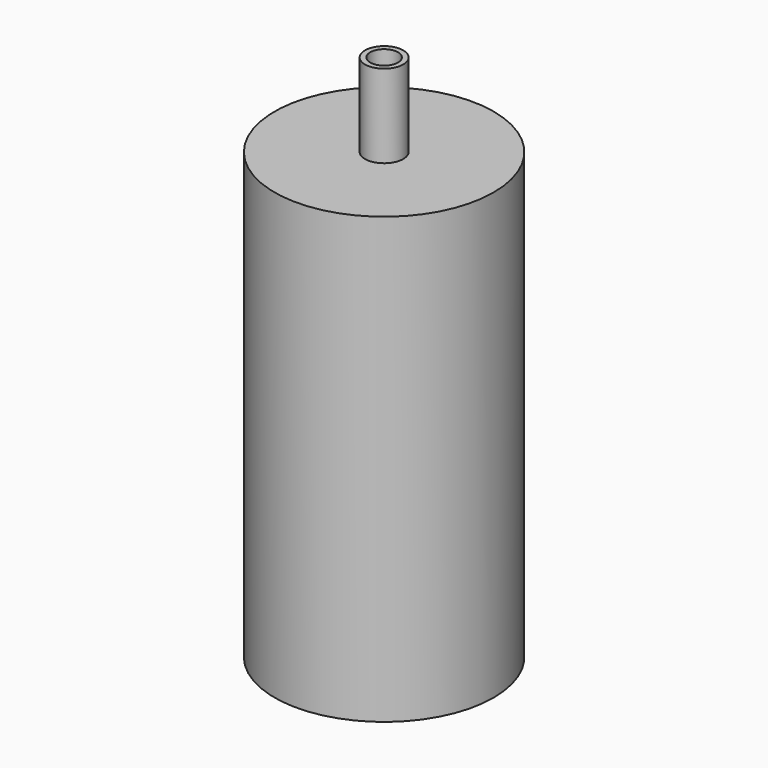
from build123d import *

# Parameters (mm, degrees)
F0_R     = 50
F0_R_2   = 49
F1_DEPTH = 201
F2_R     = 50
F3_DEPTH = 1
F5_R     = 50
F5_R_2   = 6.35
F6_DEPTH = 1
F8_R     = 8.73125
F8_R_2   = 6.35
F9_DEPTH = 38


with BuildPart() as f1:
    # F0 (on Top) → F1 (new body)
    with BuildSketch(Plane.XY):
        Circle(F0_R)
        Circle(F0_R_2, mode=Mode.SUBTRACT)
    extrude(amount=F1_DEPTH)

    # F2 (on face) → F3 (join)
    with BuildSketch(Plane(origin=(0, 0, 0), x_dir=(1, 0, 0), z_dir=(0, 0, -1))):
        Circle(F2_R)
    extrude(amount=F3_DEPTH)

    # F5 (on offset) → F6 (join)
    with BuildSketch(Plane.XY.offset(201)):
        Circle(F5_R)
        Circle(F5_R_2, mode=Mode.SUBTRACT)
    extrude(amount=F6_DEPTH)

    # F8 (on offset) → F9 (join)
    with BuildSketch(Plane.XY.offset(202)):
        Circle(F8_R)
        Circle(F8_R_2, mode=Mode.SUBTRACT)
    extrude(amount=F9_DEPTH)


solid = f1.part
